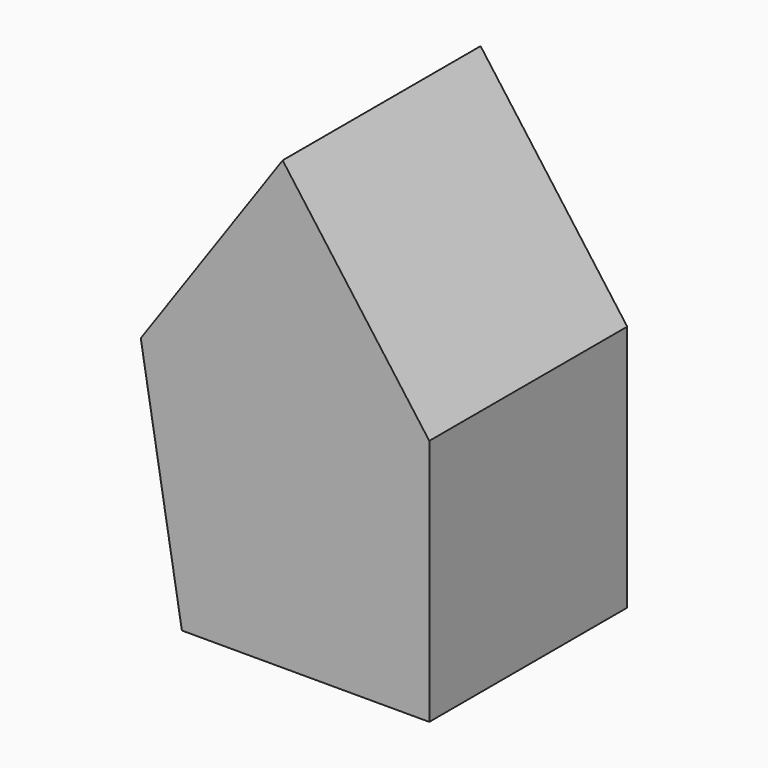
from build123d import *

# Parameters (mm, degrees)
F0_W     = 30.3246276453
F0_H     = 62.882467173
F1_DEPTH = 2000
F3_DEPTH = 39.7
F5_DEPTH = 25


with BuildPart() as f1:
    # F0 (on Front) → F1 (new body)
    with BuildSketch(Plane.XZ):
        Polygon((15.5736943707, -2027.7801752798), (1185.4242439872, -2027.7801752798), (1185.4242439872, -27.7801752798), (0, 1583.0486057418), (-1146.7263825591, -55.5540317341), (-814.5757560128, -2027.7801752798), (-14.7509332746, -2027.7801752798), (-14.7509332746, -1964.8977081067), (15.5736943707, -1964.8977081067), align=None)
        with Locations((0.411380548, -1996.3389416932)):
            Rectangle(F0_W, F0_H)
    extrude(amount=F1_DEPTH)

    # F2 (on face) → F3 (cut)
    with BuildSketch(Plane.XZ.offset(2000)):
        Polygon((-1157.9087838261, -65.6622456058), (-1146.7263825591, -55.5540317341), (-1157.9087838261, -55.5540317341), align=None)
    extrude(amount=-F3_DEPTH, mode=Mode.SUBTRACT)

    # F4 (on face) → F5 (cut)
    with BuildSketch(Plane(origin=(0, 0, 0), x_dir=(-1, 0, 0), z_dir=(0, 1, 0))):
        Polygon((-11.182401267, 1572.3321935253), (0, 1583.0486057418), (-11.182401267, 1583.0486057418), align=None)
    extrude(amount=-F5_DEPTH, mode=Mode.SUBTRACT)


solid = f1.part
